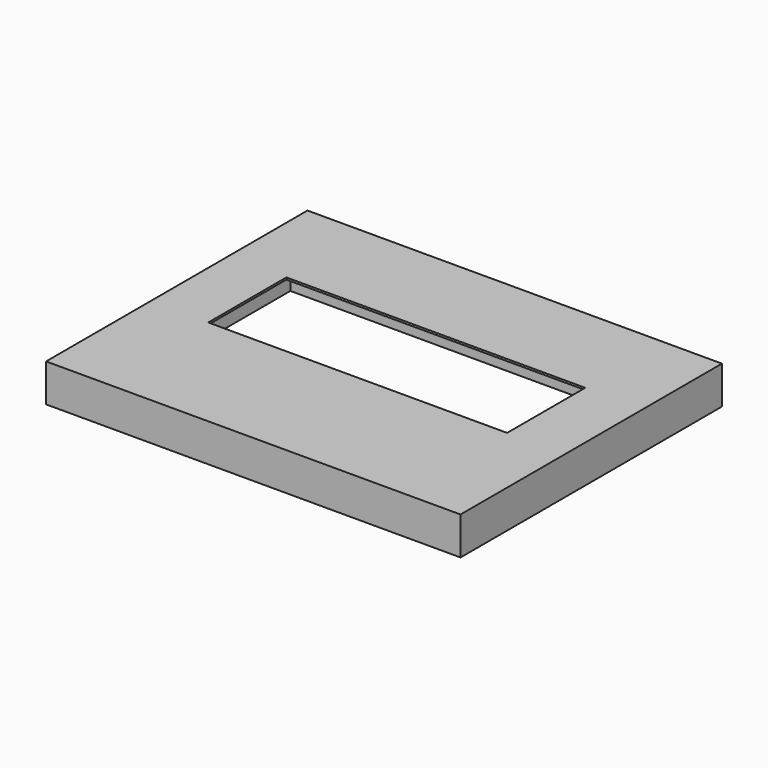
from build123d import *

# Parameters (mm, degrees)
F1_W     = 104
F1_H     = 82
F1_W_2   = 87
F1_H_2   = 42
F1_W_3   = 75
F1_H_3   = 24.5
F1_W_4   = 25
F1_H_4   = 5.41
F1_H_5   = 3.5
F2_DEPTH = 9.5
F3_DEPTH = 9
F4_DEPTH = 1
F0_R     = 1.25
F5_DEPTH = 4
F6_W     = 98
F6_H     = 9.1468319297
F7_DEPTH = 8.5


with BuildPart() as f2:
    # F1 (on Top) → F2 (new body)
    with BuildSketch(Plane.XY):
        with Locations((0, -4)):
            Rectangle(F1_W, F1_H)
        Polygon((-44.4778376818, 30), (-44.4778376818, 33.5), (-19.4778376818, 33.5), (-19.4778376818, 30), (49, 30), (49, -30), (-49, -30), (-49, 30), align=None, mode=Mode.SUBTRACT)
        Polygon((-44.4778376818, 24.59), (-44.4778376818, 30), (-49, 30), (-49, -30), (49, -30), (49, 30), (-19.4778376818, 30), (-19.4778376818, 24.59), align=None)
        Rectangle(F1_W_2, F1_H_2, mode=Mode.SUBTRACT)
        Rectangle(F1_W_2, F1_H_2)
        Rectangle(F1_W_3, F1_H_3, mode=Mode.SUBTRACT)
        with Locations((-31.9778376818, 27.295)):
            Rectangle(F1_W_4, F1_H_4)
        with Locations((-31.9778376818, 31.75)):
            Rectangle(F1_W_4, F1_H_5)
    extrude(amount=F2_DEPTH)

    # F1 (on Top) → F3 (cut)
    with BuildSketch(Plane.XY):
        Rectangle(F1_W_2, F1_H_2)
        Rectangle(F1_W_3, F1_H_3, mode=Mode.SUBTRACT)
        with Locations((-31.9778376818, 27.295)):
            Rectangle(F1_W_4, F1_H_4)
        with Locations((-31.9778376818, 31.75)):
            Rectangle(F1_W_4, F1_H_5)
    extrude(amount=F3_DEPTH, mode=Mode.SUBTRACT)

    # F1 (on Top) → F4 (cut)
    with BuildSketch(Plane.XY):
        Polygon((-44.4778376818, 24.59), (-44.4778376818, 30), (-49, 30), (-49, -30), (49, -30), (49, 30), (-19.4778376818, 30), (-19.4778376818, 24.59), align=None)
        Rectangle(F1_W_2, F1_H_2, mode=Mode.SUBTRACT)
        Rectangle(F1_W_2, F1_H_2)
        Rectangle(F1_W_3, F1_H_3, mode=Mode.SUBTRACT)
        with Locations((-31.9778376818, 27.295)):
            Rectangle(F1_W_4, F1_H_4)
    extrude(amount=F4_DEPTH, mode=Mode.SUBTRACT)

    # F0 (on Top) → F5 (cut)
    with BuildSketch(Plane.XY):
        with Locations((-47, 28)):
            Circle(F0_R)
        with Locations((47, 28)):
            Circle(F0_R)
        with Locations((47, -28)):
            Circle(F0_R)
        with Locations((-47, -28)):
            Circle(F0_R)
    extrude(amount=F5_DEPTH, mode=Mode.SUBTRACT)

    # F6 (on face) → F7 (cut)
    with BuildSketch(Plane(origin=(0, 0, 0), x_dir=(1, 0, 0), z_dir=(0, 0, -1))):
        with Locations((0, 37.0334051549)):
            Rectangle(F6_W, F6_H)
    extrude(amount=-F7_DEPTH, mode=Mode.SUBTRACT)


solid = f2.part
